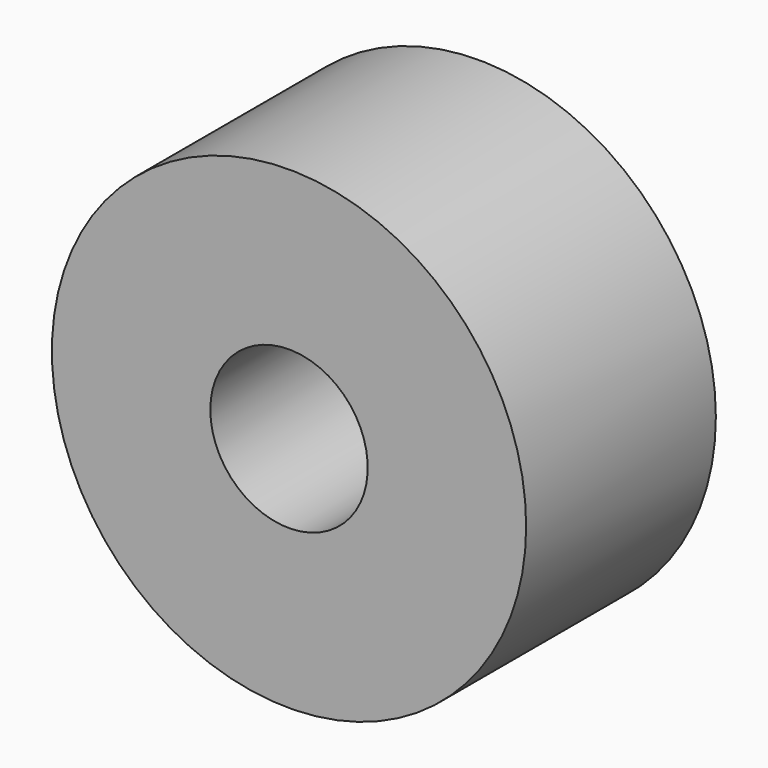
from build123d import *

# Parameters (mm, degrees)
F0_R     = 25.4
F1_DEPTH = 25.4
F2_R     = 8.431032
F3_DEPTH = 25.4


with BuildPart() as f1:
    # F0 (on Front) → F1 (new body)
    with BuildSketch(Plane.XZ):
        with Locations((-33.860441, 34.906324)):
            Circle(F0_R)
    extrude(amount=F1_DEPTH)

    # F2 (on face) → F3 (cut)
    with BuildSketch(Plane(origin=(0, 0, 0), x_dir=(-1, 0, 0), z_dir=(0, 1, 0))):
        with Locations((33.860441, 34.906324)):
            Circle(F2_R)
    extrude(amount=-F3_DEPTH, mode=Mode.SUBTRACT)


solid = f1.part
